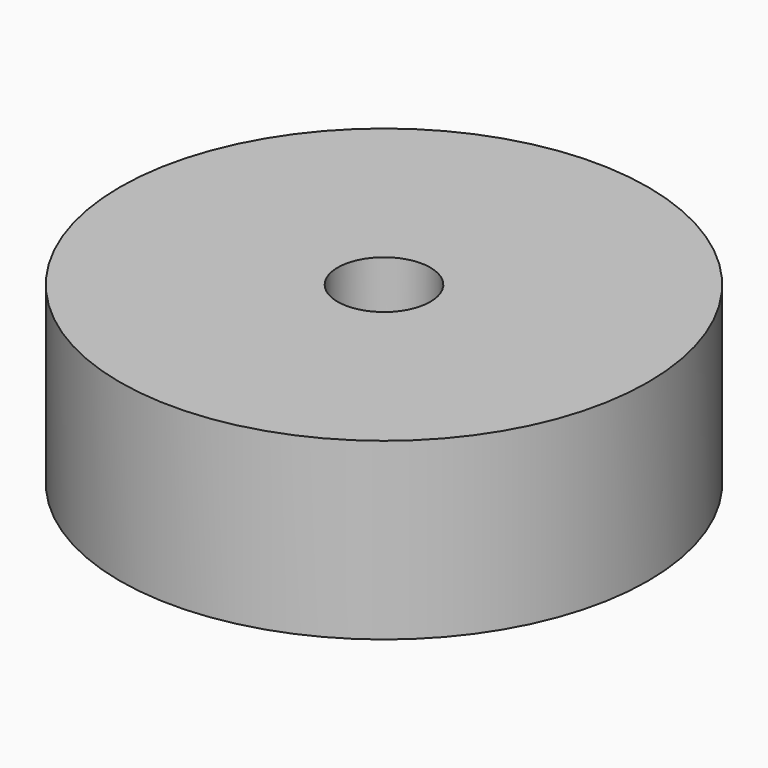
from build123d import *

# Parameters (mm, degrees)
CYLINDER712_R     = 2.65
CYLINDER712_DEPTH = 30
CYLINDER711_R     = 15.1
CYLINDER711_DEPTH = 10


with BuildPart() as obj1:
    # Cylinder712 → Cylinder712 (new body)
    with BuildSketch(Plane(origin=(0, 83, 232), x_dir=(1, 0, 0), z_dir=(0, 0, 1))):
        Circle(CYLINDER712_R)
    extrude(amount=CYLINDER712_DEPTH)


with BuildPart() as cut290:
    # Cylinder711 → Cylinder711 (new body)
    with BuildSketch(Plane(origin=(0, 83, 242), x_dir=(1, 0, 0), z_dir=(0, 0, 1))):
        Circle(CYLINDER711_R)
    extrude(amount=CYLINDER711_DEPTH)

    # Cut290: cut obj1
    add(obj1.part, mode=Mode.SUBTRACT)


solid = cut290.part
